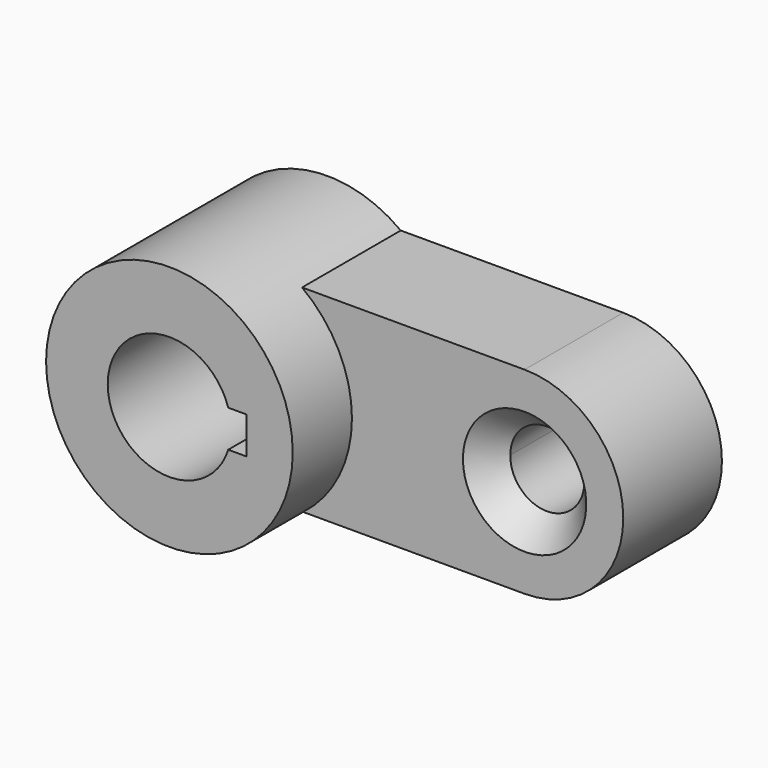
from build123d import *

# Parameters (mm, degrees)
F0_R           = 31.75
F0_R_2         = 15.875
F1_DEPTH       = 50.8
F2_R           = 9.525
F3_DEPTH       = 31.75
F5_D           = 19.05
F5_CSINK_D     = 31.75
F5_CSINK_ANGLE = 82
F7_DEPTH       = 76.2


with BuildPart() as f1:
    # F0 (on Front) → F1 (new body)
    with BuildSketch(Plane.XZ):
        Circle(F0_R)
        Circle(F0_R_2, mode=Mode.SUBTRACT)
    extrude(amount=F1_DEPTH)

    # F2 (on Front) → F3 (join)
    with BuildSketch(Plane.XZ):
        with BuildLine():
            Line((76.2, 25.49937), (18.47559, 25.49937))
            Line((18.47559, 25.49937), (18.47559, -25.30063))
            Line((18.47559, -25.30063), (76.2, -25.30063))
            ThreePointArc((76.2, -25.30063), (101.6, 0.09937), (76.2, 25.49937))
        make_face()
        with Locations((76.2, 0)):
            Circle(F2_R, mode=Mode.SUBTRACT)
    extrude(amount=F3_DEPTH)

    # F5 (through all)
    with Locations(Plane.XZ.offset(31.75)):
        with Locations((76.2, 0.09937)):
            CounterSinkHole(F5_D / 2, F5_CSINK_D / 2, counter_sink_angle=F5_CSINK_ANGLE)

    # F6 (on face) → F7 (cut)
    with BuildSketch(Plane.XZ.offset(50.8)):
        with BuildLine():
            ThreePointArc((15.875, 0), (15.691131, -2.409153), (15.143785, -4.7625))
            Line((15.143785, -4.7625), (19.906285, -4.7625))
            Line((19.906285, -4.7625), (19.906285, 4.7625))
            Line((19.906285, 4.7625), (15.143785, 4.7625))
            ThreePointArc((15.143785, 4.7625), (15.691131, 2.409153), (15.875, 0))
        make_face()
    extrude(amount=-F7_DEPTH, mode=Mode.SUBTRACT)


solid = f1.part
